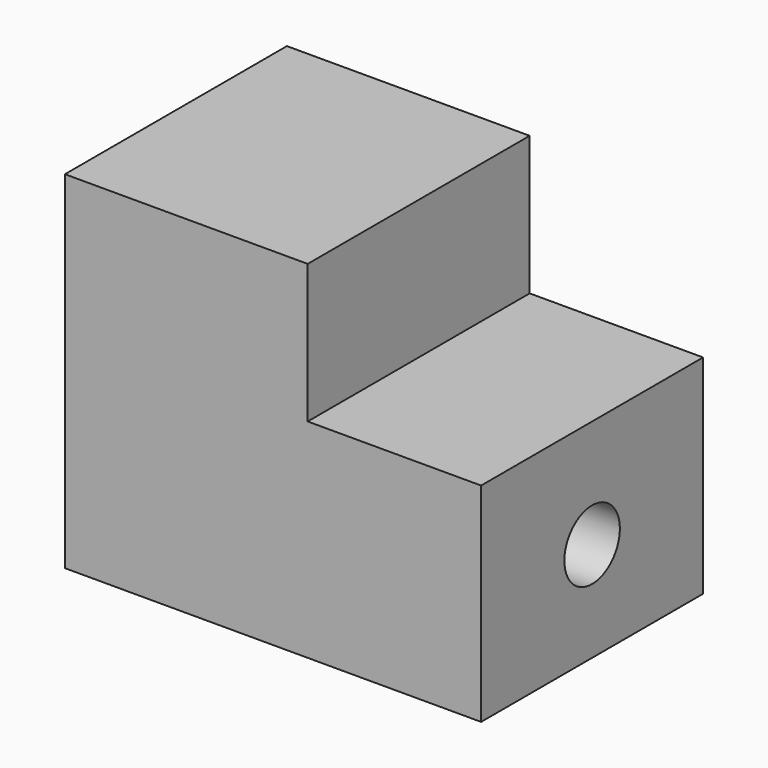
from build123d import *

# Parameters (mm, degrees)
F0_W     = 152.4
F0_H     = 101.6
F1_DEPTH = 127
F2_W     = 101.6
F2_H     = 50.8
F3_DEPTH = 63.5
F5_D     = 25.4


with BuildPart() as f1:
    # F0 (on Top) → F1 (new body)
    with BuildSketch(Plane.XY):
        with Locations((22.482285, -25.539184)):
            Rectangle(F0_W, F0_H)
    extrude(amount=F1_DEPTH)

    # F2 (on face) → F3 (cut)
    with BuildSketch(Plane.YZ.offset(98.682285)):
        with Locations((-25.539184, 101.6)):
            Rectangle(F2_W, F2_H)
    extrude(amount=-F3_DEPTH, mode=Mode.SUBTRACT)

    # F5 (through all)
    with Locations(Plane.YZ.offset(98.682285)):
        with Locations((-25.539184, 36.48724)):
            Hole(F5_D / 2)


solid = f1.part
